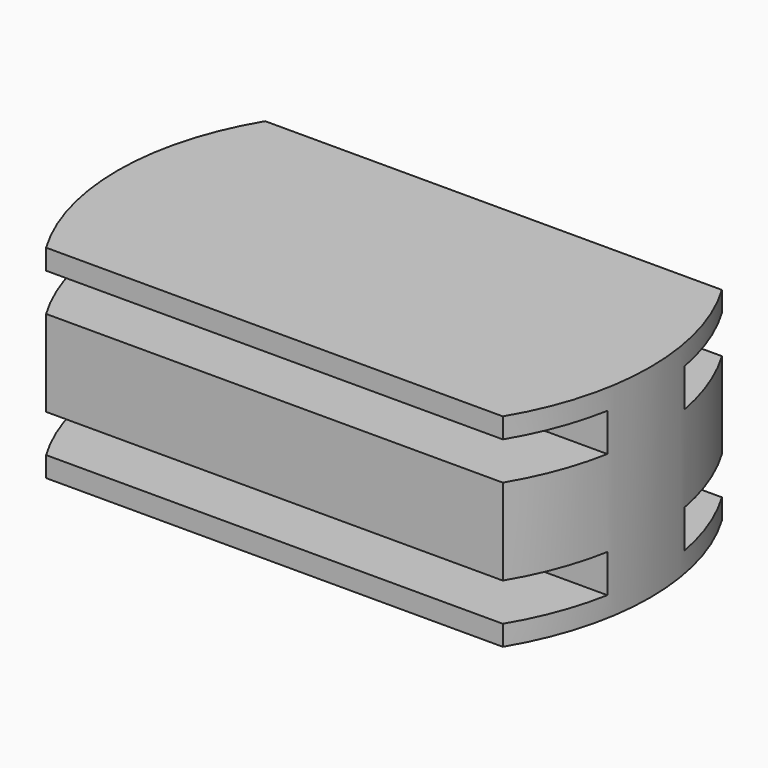
from build123d import *

# Parameters (mm, degrees)
F1_DEPTH = 8
F2_W     = 3.5
F2_H     = 1.5
F3_DEPTH = 12.5


with BuildPart() as f1:
    # F0 (on Top) → F1 (new body)
    with BuildSketch(Plane.XY):
        with BuildLine():
            ThreePointArc((9.004999, -5.4), (10.5, 0), (9.004999, 5.4))
            Line((9.004999, 5.4), (-9.004999, 5.4))
            ThreePointArc((-9.004999, 5.4), (-10.5, 0), (-9.004999, -5.4))
            Line((-9.004999, -5.4), (9.004999, -5.4))
        make_face()
    extrude(amount=-F1_DEPTH)

    # F2 (on Right) → F3 (cut, symmetric)
    with BuildSketch(Plane.YZ):
        with Locations((3.65, -1.55)):
            Rectangle(F2_W, F2_H)
        with Locations((-3.65, -1.55)):
            Rectangle(F2_W, F2_H)
        with Locations((-3.65, -6.45)):
            Rectangle(F2_W, F2_H)
        with Locations((3.65, -6.45)):
            Rectangle(F2_W, F2_H)
    extrude(amount=F3_DEPTH, both=True, mode=Mode.SUBTRACT)


solid = f1.part
